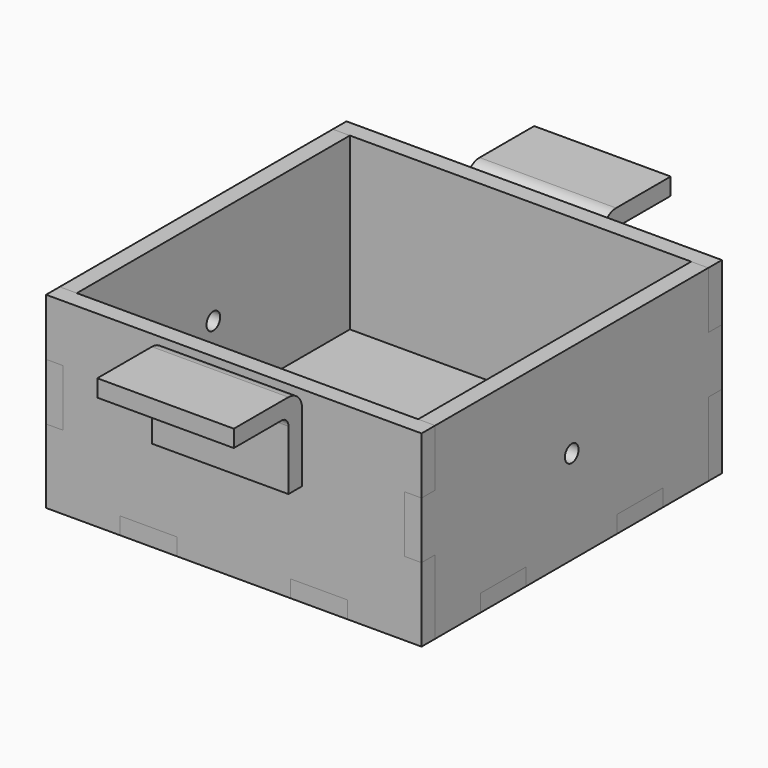
from build123d import *

# Parameters (mm, degrees)
F1_DEPTH      = 3.175
F2_R          = 1.5875
F3_DEPTH      = 3.175
F6_DEPTH      = 3.175
F9_DEPTH      = 12.7
F9_DEPTH_BACK = 12.7


with BuildPart() as f1:
    # F0 (on Top) → F1 (new body)
    with BuildSketch(Plane.XY):
        Polygon((-21.166667, 31.75), (-31.75, 31.75), (-31.75, 21.166667), (-34.925, 21.166667), (-34.925, 10.583333), (-31.75, 10.583333), (-31.75, 0), (-31.75, -10.583333), (-34.925, -10.583333), (-34.925, -21.166667), (-31.75, -21.166667), (-31.75, -31.75), (-21.166667, -31.75), (-21.166667, -34.925), (-10.583333, -34.925), (-10.583333, -31.75), (0, -31.75), (10.583333, -31.75), (10.583333, -34.925), (21.166667, -34.925), (21.166667, -31.75), (31.75, -31.75), (31.75, -21.166667), (34.925, -21.166667), (34.925, -10.583333), (31.75, -10.583333), (31.75, 0), (31.75, 10.583333), (34.925, 10.583333), (34.925, 21.166667), (31.75, 21.166667), (31.75, 31.75), (21.166667, 31.75), (21.166667, 34.925), (10.583333, 34.925), (10.583333, 31.75), (0, 31.75), (-10.583333, 31.75), (-10.583333, 34.925), (-21.166667, 34.925), align=None)
    extrude(amount=F1_DEPTH)


with BuildPart() as f3:
    # F2 (on face) → F3 (new body, through all)
    with BuildSketch(Plane.YZ.offset(34.925)):
        Polygon((-31.75, 3.175), (-31.75, 0), (-21.166667, 0), (-21.166667, 3.175), (-10.583333, 3.175), (-10.583333, 0), (10.583333, 0), (10.583333, 3.175), (21.166667, 3.175), (21.166667, 0), (31.75, 0), (31.75, 3.175), (31.75, 13.758333), (34.925, 13.758333), (34.925, 24.341667), (31.75, 24.341667), (31.75, 34.925), (-31.75, 34.925), (-31.75, 24.341667), (-34.925, 24.341667), (-34.925, 13.758333), (-31.75, 13.758333), align=None)
        with Locations((0, 17.4625)):
            Circle(F2_R, mode=Mode.SUBTRACT)
    extrude(amount=-F3_DEPTH)


with BuildPart() as f4_1:
    # F4: instance of F3
    add(f3.part.mirror(Plane.YZ))


with BuildPart() as f6:
    # F5 (on face) → F6 (new body)
    with BuildSketch(Plane(origin=(0, 31.75, 0), x_dir=(-1, 0, 0), z_dir=(0, 1, 0))):
        Polygon((31.75, 24.341667), (34.925, 24.341667), (34.925, 34.925), (-34.925, 34.925), (-34.925, 24.341667), (-31.75, 24.341667), (-31.75, 13.758333), (-34.925, 13.758333), (-34.925, 0), (-21.166667, 0), (-21.166667, 3.175), (-10.583333, 3.175), (-10.583333, 0), (10.583333, 0), (10.583333, 3.175), (21.166667, 3.175), (21.166667, 0), (34.925, 0), (34.925, 13.758333), (31.75, 13.758333), align=None)
    extrude(amount=F6_DEPTH)

    # F10: F9 across plane


with BuildPart() as f7_1:
    # F7: instance of F6
    add(f6.part.mirror(Plane.XZ))


with BuildPart() as f9:
    # F8 (on Right) → F9 (new body, two sides)
    with BuildSketch(Plane.YZ) as f9_sk:
        with BuildLine():
            Line((-34.925, 19.05), (-34.925, 31.75))
            ThreePointArc((-34.925, 31.75), (-35.854936, 33.995064), (-38.1, 34.925))
            Line((-38.1, 34.925), (-50.8, 34.925))
            Line((-50.8, 34.925), (-50.8, 31.75))
            Line((-50.8, 31.75), (-39.6875, 31.75))
            ThreePointArc((-39.6875, 31.75), (-38.564968, 31.285032), (-38.1, 30.1625))
            Line((-38.1, 30.1625), (-38.1, 19.05))
            Line((-38.1, 19.05), (-34.925, 19.05))
        make_face()
    extrude(amount=F9_DEPTH)
    extrude(f9_sk.sketch, amount=-F9_DEPTH_BACK)


with BuildPart() as f6_1:
    add(f6.part)
    add(f9.part.mirror(Plane.XZ))


solid = Compound([f1.part, f3.part, f4_1.part, f7_1.part, f9.part, f6_1.part])
